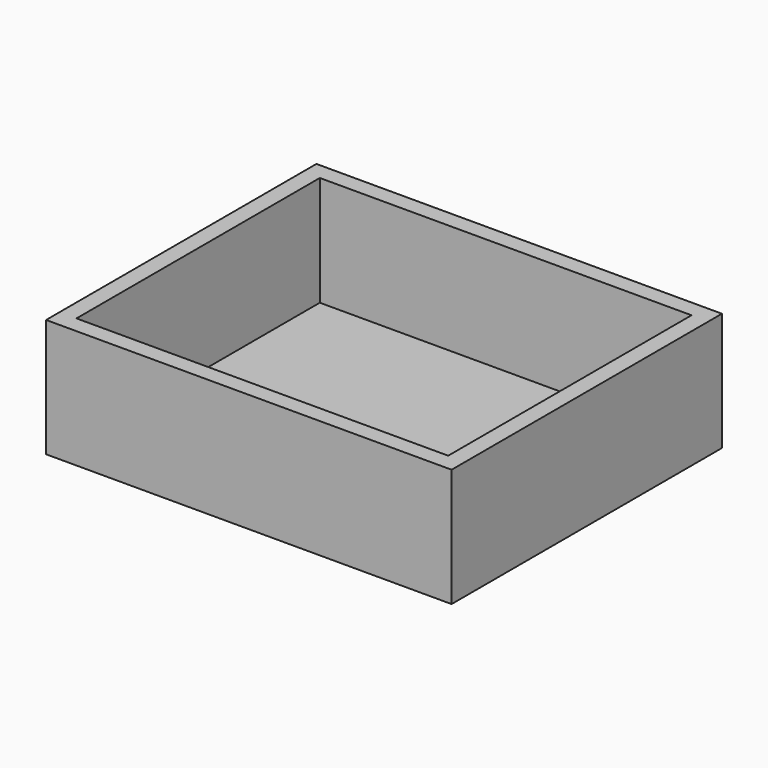
from build123d import *

# Parameters (mm, degrees)
BOX001_W     = 220
BOX001_H     = 180
BOX001_DEPTH = 65
BOX_W        = 240
BOX_H        = 200
BOX_DEPTH    = 70


with BuildPart() as cubo001:
    # Box001 → Box001 (new body)
    with BuildSketch(Plane(origin=(10, 10, 5), x_dir=(1, 0, 0), z_dir=(0, 0, 1))):
        with Locations((110, 90)):
            Rectangle(BOX001_W, BOX001_H)
    extrude(amount=BOX001_DEPTH)


with BuildPart() as box:
    # Box → Box (new body)
    with BuildSketch(Plane.XY):
        with Locations((120, 100)):
            Rectangle(BOX_W, BOX_H)
    extrude(amount=BOX_DEPTH)

    # Cut: cut Cubo001
    add(cubo001.part, mode=Mode.SUBTRACT)


solid = box.part
